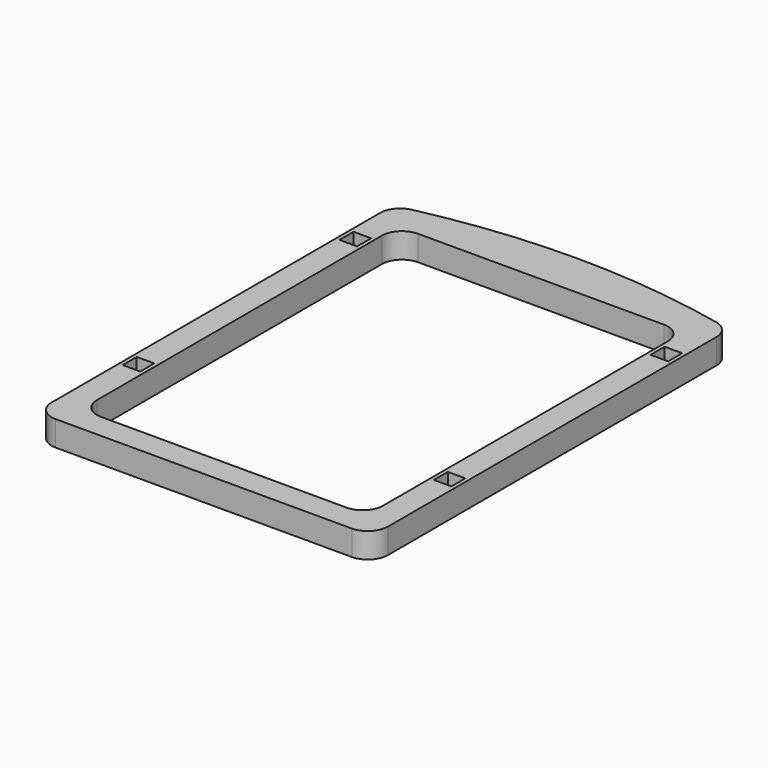
from build123d import *

# Parameters (mm, degrees)
F0_W     = 67
F0_H     = 89
F0_W_2   = 3.5
F0_H_2   = 3.5
F0_W_3   = 57
F0_H_3   = 79
F1_DEPTH = 5
F2_R     = 4


with BuildPart() as f1:
    # F0 (on Top) → F1 (new body)
    with BuildSketch(Plane.XY):
        Rectangle(F0_W, F0_H)
        with Locations((-31, -22)):
            Rectangle(F0_W_2, F0_H_2, mode=Mode.SUBTRACT)
        with Locations((31, -22)):
            Rectangle(F0_W_2, F0_H_2, mode=Mode.SUBTRACT)
        Rectangle(F0_W_3, F0_H_3, mode=Mode.SUBTRACT)
        with Locations((-31, 32)):
            Rectangle(F0_W_2, F0_H_2, mode=Mode.SUBTRACT)
        with Locations((31, 32)):
            Rectangle(F0_W_2, F0_H_2, mode=Mode.SUBTRACT)
        with BuildLine():
            Line((-33.5, 44.5), (33.5, 44.5))
            ThreePointArc((33.5, 44.5), (0, 48.5), (-33.5, 44.5))
        make_face()
    extrude(amount=F1_DEPTH)

    # F2
    f2_edges = [f1.edges().sort_by_distance(p)[0] for p in [
        (-33.5, -44.5, 2.5),
        (33.5, -44.5, 2.5),
        (-33.5, 44.5, 2.5),
        (33.5, 44.5, 2.5),
        (-28.5, 39.5, 2.5),
        (28.5, 39.5, 2.5),
        (28.5, -39.5, 2.5),
        (-28.5, -39.5, 2.5),
    ]]
    fillet(f2_edges, radius=F2_R)


solid = f1.part
